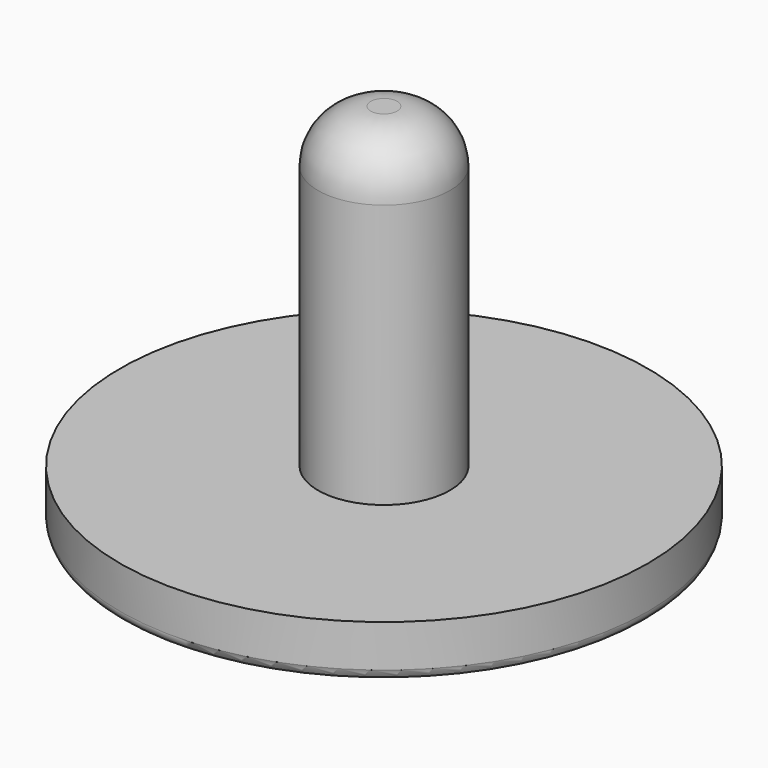
from build123d import *

# Parameters (mm, degrees)
F0_R     = 5
F1_DEPTH = 1
F2_R     = 1.25
F3_DEPTH = 6
F4_R     = 1
F5_R     = 0.2


with BuildPart() as f1:
    # F0 (on Top) → F1 (new body)
    with BuildSketch(Plane.XY):
        Circle(F0_R)
    extrude(amount=F1_DEPTH)

    # F2 (on face) → F3 (join)
    with BuildSketch(Plane.XY.offset(1)):
        Circle(F2_R)
    extrude(amount=F3_DEPTH)

    # F4
    f4_edges = [f1.edges().sort_by_distance(p)[0] for p in [
        (-1.25, 0, 7),
    ]]
    fillet(f4_edges, radius=F4_R)

    # F5
    f5_edges = [f1.edges().sort_by_distance(p)[0] for p in [
        (-5, 0, 0),
    ]]
    fillet(f5_edges, radius=F5_R)


solid = f1.part
